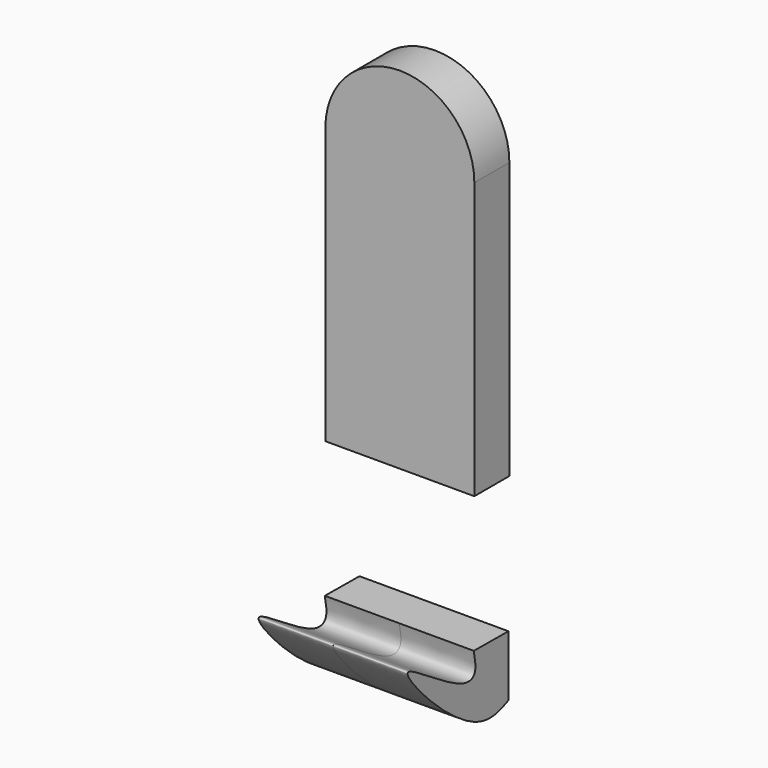
from build123d import *

# Parameters (mm, degrees)
F1_DEPTH = 5
F3_DEPTH = 8.5


with BuildPart() as f1:
    # F0 (on Front) → F1 (new body)
    with BuildSketch(Plane.XZ):
        with BuildLine():
            ThreePointArc((8.6200801803, 24.9050657113), (0.1200801803, 33.4050657113), (-8.3799198197, 24.9050657113))
            Line((-8.3799198197, 24.9050657113), (-8.3799198197, -6.5949342887))
            Line((-8.3799198197, -6.5949342887), (8.6200801803, -6.5949342887))
            Line((8.6200801803, -6.5949342887), (8.6200801803, 24.9050657113))
        make_face()
        with BuildLine():
            ThreePointArc((8.6200801803, 24.9050657113), (0.1200801803, 33.4050657113), (-8.3799198197, 24.9050657113))
            Line((-8.3799198197, 24.9050657113), (-8.3799198197, -6.5949342887))
            Line((-8.3799198197, -6.5949342887), (8.6200801803, -6.5949342887))
            Line((8.6200801803, -6.5949342887), (8.6200801803, 24.9050657113))
        make_face()
    extrude(amount=F1_DEPTH)


with BuildPart() as f3:
    # F2 (on Right) → F3 (new body, symmetric)
    with BuildSketch(Plane.YZ):
        with BuildLine():
            Line((0.013565836, -22.2315713763), (-4.9255341291, -22.1924073994))
            add(Edge.make_bspline(
                [(-4.9255341291, -22.1924073994), (-4.7449644372, -23.1077914368), (-4.3885025253, -24.914855866), (-7.1527987917, -25.4021910895), (-19.9273497333, -15.5434690169), (-4.5023920771, -32.5137191407), (-0.0885803837, -29.0693910148), (0.0112932377, -29.2125822191), (0.013565836, -29.2206046382)],
                knots=[0, 0, 0, 0, 0.1281220998, 0.2529263302, 0.4943221397, 0.8059857979, 0.971340208, 0.9787578336, 0.9787578336, 0.9787578336, 0.9787578336], degree=3))
            Line((0.013565836, -29.2206046382), (0.013565836, -22.2315713763))
        make_face()
    extrude(amount=F3_DEPTH, both=True)


solid = Compound([f1.part, f3.part])
